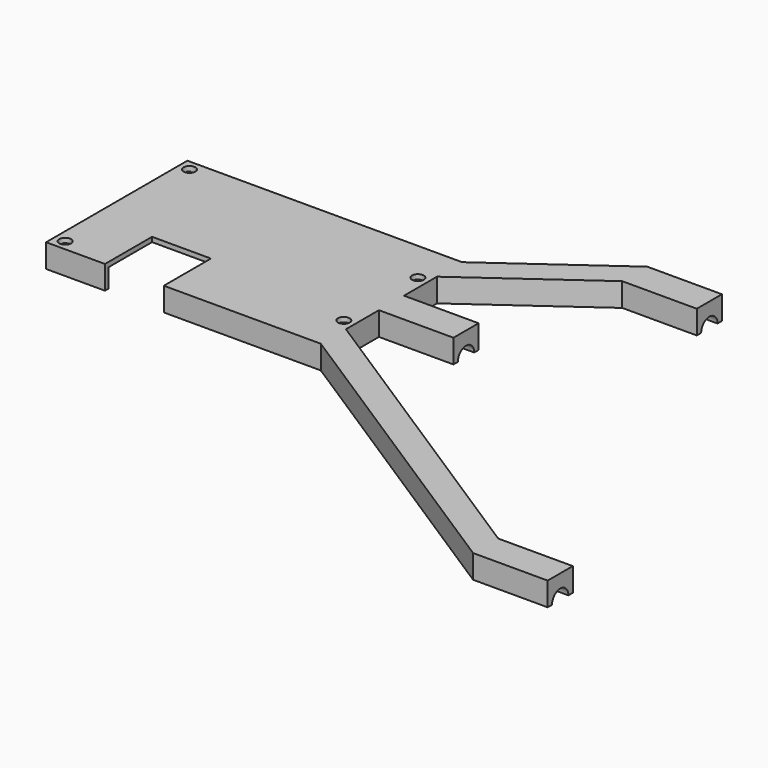
from build123d import *

# Parameters (mm, degrees)
PAD001_DEPTH    = 6
THICKNESS001_T  = -1.2
SKETCH011_R     = 1.5
POCKET003_DEPTH = 1.2
SKETCH012_W     = 15
SKETCH012_H     = 15
POCKET004_DEPTH = 6.001
SKETCH013_R     = 2.6
POCKET005_DEPTH = 1.2
SKETCH014_R     = 2.6
POCKET006_DEPTH = 1.2
SKETCH015_R     = 2.6
POCKET007_DEPTH = 1.2
PAD008_DEPTH    = 4
PAD009_DEPTH    = 4
PAD010_DEPTH    = 4


with BuildPart() as part:
    # Sketch004 → Pad001 (new body)
    with BuildSketch(Plane.XY):
        Polygon((80, -74), (65, -74), (-15, -22.5), (-85, -22.5), (-85, 22.5), (-15, 22.5), (15, 44), (30, 44), (30, 36), (15, 36), (-15, 14.5), (-15, 4), (0, 4), (0, -4), (-15, -4), (-15, -14.5), (65, -66), (80, -66), align=None)
    extrude(amount=PAD001_DEPTH)

    # Thickness001
    thickness001_openings = [part.faces().sort_by_distance(p)[0] for p in [
        (-29.840547, -5.671982, 0),
    ]]
    offset(amount=THICKNESS001_T, openings=thickness001_openings, kind=Kind.INTERSECTION)

    # Sketch011 (on Face19 of Thickness001) → Pocket003 (cut)
    with BuildSketch(Plane.XY.offset(6)):
        with Locations((-82.3, 19.8)):
            Circle(SKETCH011_R)
        with Locations((-82.3, -19.8)):
            Circle(SKETCH011_R)
        with Locations((-17.7, 11.8)):
            Circle(SKETCH011_R)
        with Locations((-17.7, -11.8)):
            Circle(SKETCH011_R)
    extrude(amount=-POCKET003_DEPTH, mode=Mode.SUBTRACT)

    # Sketch012 (on Face5 of Pocket003) → Pocket004 (cut, through all)
    with BuildSketch(Plane.XY.offset(6)):
        with Locations((-62.5, -15)):
            Rectangle(SKETCH012_W, SKETCH012_H)
    extrude(amount=-POCKET004_DEPTH, mode=Mode.SUBTRACT)

    # Sketch013 (on Face16 of Pocket004) → Pocket005 (cut)
    with BuildSketch(Plane.YZ.offset(30)):
        with Locations((40, 0)):
            Circle(SKETCH013_R)
    extrude(amount=-POCKET005_DEPTH, mode=Mode.SUBTRACT)

    # Sketch014 (on Face11 of Pocket005) → Pocket006 (cut)
    with BuildSketch(Plane.YZ):
        Circle(SKETCH014_R)
    extrude(amount=-POCKET006_DEPTH, mode=Mode.SUBTRACT)

    # Sketch015 (on Face2 of Pocket006) → Pocket007 (cut)
    with BuildSketch(Plane.YZ.offset(80)):
        with Locations((-70, 0)):
            Circle(SKETCH015_R)
    extrude(amount=-POCKET007_DEPTH, mode=Mode.SUBTRACT)

    # Pocket007 Face2 → Pad008 (add)
    with BuildSketch(Plane(origin=(80, -70, 3.538728), x_dir=(0, -1, 0), z_dir=(1, 0, 0))):
        with BuildLine():
            Line((-2.6, 3.538728), (-4, 3.538728))
            Line((-4, 3.538728), (-4, -2.461272))
            Line((-4, -2.461272), (4, -2.461272))
            Line((4, -2.461272), (4, 3.538728))
            Line((4, 3.538728), (2.6, 3.538728))
            ThreePointArc((2.6, 3.538728), (0, 0.938728), (-2.6, 3.538728))
        make_face()
    extrude(amount=PAD008_DEPTH)

    # Pad008 Face12 → Pad009 (add)
    with BuildSketch(Plane(origin=(0, 0, 3.538728), x_dir=(0, -1, 0), z_dir=(1, 0, 0))):
        with BuildLine():
            Line((-2.6, 3.538728), (-4, 3.538728))
            Line((-4, 3.538728), (-4, -2.461272))
            Line((-4, -2.461272), (4, -2.461272))
            Line((4, -2.461272), (4, 3.538728))
            Line((4, 3.538728), (2.6, 3.538728))
            ThreePointArc((2.6, 3.538728), (0, 0.938728), (-2.6, 3.538728))
        make_face()
    extrude(amount=PAD009_DEPTH)

    # Pad009 Face19 → Pad010 (add)
    with BuildSketch(Plane(origin=(30, 40, 3.538728), x_dir=(0, -1, 0), z_dir=(1, 0, 0))):
        with BuildLine():
            Line((-2.6, 3.538728), (-4, 3.538728))
            Line((-4, 3.538728), (-4, -2.461272))
            Line((-4, -2.461272), (4, -2.461272))
            Line((4, -2.461272), (4, 3.538728))
            Line((4, 3.538728), (2.6, 3.538728))
            ThreePointArc((2.6, 3.538728), (0, 0.938728), (-2.6, 3.538728))
        make_face()
    extrude(amount=PAD010_DEPTH)


with BuildPart() as part_1:
    # Body001 placement: moved
    add(part.part.moved(Location((0, 0, 11))))


solid = part_1.part
